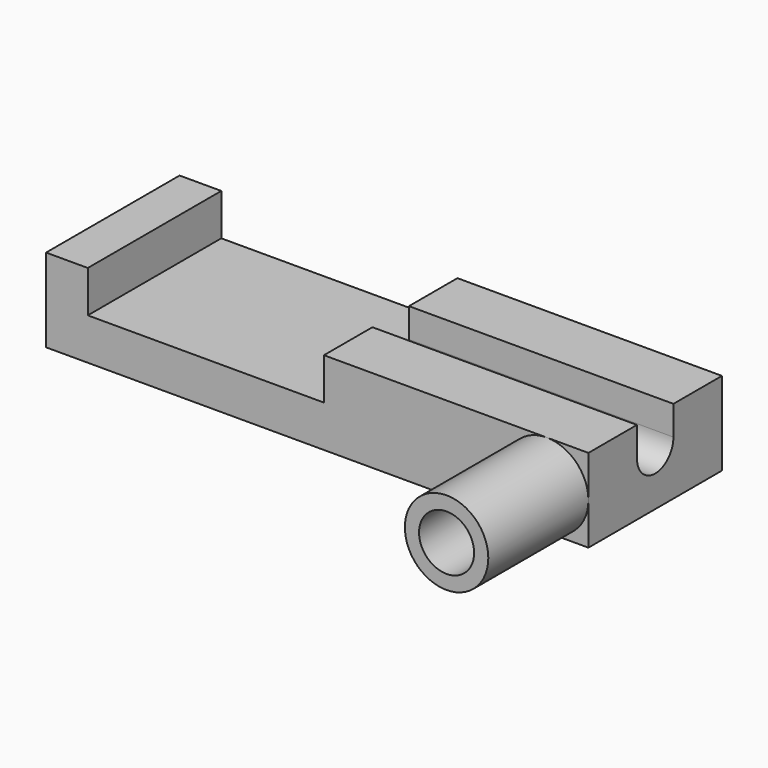
from build123d import *

# Parameters (mm, degrees)
SKETCH_W        = 65
SKETCH_H        = 20
PAD_DEPTH       = 5
SKETCH001_W     = 5
SKETCH001_H     = 20
SKETCH001_W_2   = 31.7
PAD001_DEPTH    = 5
POCKET_DEPTH    = 31.7
SKETCH003_R     = 5
PAD002_DEPTH    = 15
SKETCH004_R     = 3.3
POCKET001_DEPTH = 15


with BuildPart() as part:
    # Sketch → Pad (new body)
    with BuildSketch(Plane.XY):
        with Locations((2.5, 0)):
            Rectangle(SKETCH_W, SKETCH_H)
    extrude(amount=PAD_DEPTH)

    # Sketch001 → Pad001 (new body)
    with BuildSketch(Plane.XY.offset(5)):
        with Locations((-27.5, 0)):
            Rectangle(SKETCH001_W, SKETCH001_H)
        with Locations((19.15, 0)):
            Rectangle(SKETCH001_W_2, SKETCH001_H)
    extrude(amount=PAD001_DEPTH)

    # Sketch002 → Pocket (cut)
    with BuildSketch(Plane.YZ.offset(35)):
        with BuildLine():
            Line((-2.73443, 10), (-2.73443, 6.487833))
            ThreePointArc((-2.73443, 6.487833), (0, 3.753403), (2.73443, 6.487833))
            Line((2.73443, 10), (2.73443, 6.487833))
            Line((-2.73443, 10), (2.73443, 10))
        make_face()
    extrude(amount=-POCKET_DEPTH, mode=Mode.SUBTRACT)

    # Sketch003 → Pad002 (new body)
    with BuildSketch(Plane.XZ.offset(10)):
        with Locations((30, 5)):
            Circle(SKETCH003_R)
    extrude(amount=PAD002_DEPTH)

    # Sketch004 → Pocket001 (cut)
    with BuildSketch(Plane.XZ.offset(25)):
        with Locations((30, 5)):
            Circle(SKETCH004_R)
    extrude(amount=-POCKET001_DEPTH, mode=Mode.SUBTRACT)


solid = part.part
